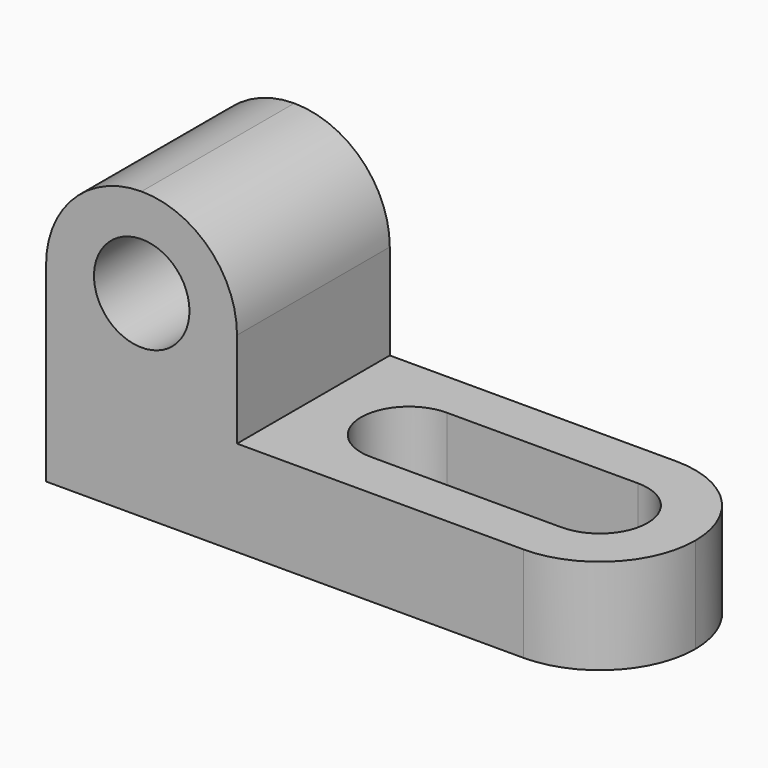
from build123d import *

# Parameters (mm, degrees)
F1_DEPTH = 25.4
F2_R     = 6.35
F3_DEPTH = 52.07
F5_DEPTH = 48.768
F7_DEPTH = 25.4
F9_DEPTH = 25.4


with BuildPart() as f1:
    # F0 (on Front) → F1 (new body)
    with BuildSketch(Plane.XZ):
        Polygon((0, 38.1), (0, 0), (76.2, 0), (76.2, 12.7), (25.4, 12.7), (25.4, 38.1), align=None)
    extrude(amount=-F1_DEPTH)

    # F2 (on face) → F3 (cut)
    with BuildSketch(Plane.XZ):
        with Locations((12.7231444902, 26.1663774417)):
            Circle(F2_R)
    extrude(amount=-F3_DEPTH, mode=Mode.SUBTRACT)

    # F4 (on face) → F5 (cut)
    with BuildSketch(Plane.XZ):
        with BuildLine():
            ThreePointArc((12.7, 38.1), (21.6802561211, 34.3802561211), (25.4, 25.4))
            Line((25.4, 25.4), (25.4, 38.1))
            Line((25.4, 38.1), (12.7, 38.1))
        make_face()
        with BuildLine():
            ThreePointArc((0, 25.4), (3.7197438789, 34.3802561211), (12.7, 38.1))
            Line((12.7, 38.1), (0, 38.1))
            Line((0, 38.1), (0, 25.4))
        make_face()
    extrude(amount=-F5_DEPTH, mode=Mode.SUBTRACT)

    # F6 (on face) → F7 (cut)
    with BuildSketch(Plane.XY.offset(12.7)):
        with BuildLine():
            Line((63.5, 19.05), (38.1, 19.05))
            ThreePointArc((38.1, 19.05), (31.75, 12.7), (38.1, 6.35))
            Line((38.1, 6.35), (63.5, 6.35))
            ThreePointArc((63.5, 6.35), (69.85, 12.7), (63.5, 19.05))
        make_face()
    extrude(amount=-F7_DEPTH, mode=Mode.SUBTRACT)

    # F8 (on face) → F9 (cut)
    with BuildSketch(Plane.XY.offset(12.7)):
        with BuildLine():
            ThreePointArc((63.5, 25.4), (72.4802561211, 21.6802561211), (76.2, 12.7))
            Line((76.2, 12.7), (76.2, 25.4))
            Line((76.2, 25.4), (63.5, 25.4))
        make_face()
        with BuildLine():
            ThreePointArc((76.2, 12.7), (72.4802561211, 3.7197438789), (63.5, 0))
            Line((63.5, 0), (76.2, 0))
            Line((76.2, 0), (76.2, 12.7))
        make_face()
    extrude(amount=-F9_DEPTH, mode=Mode.SUBTRACT)


solid = f1.part
